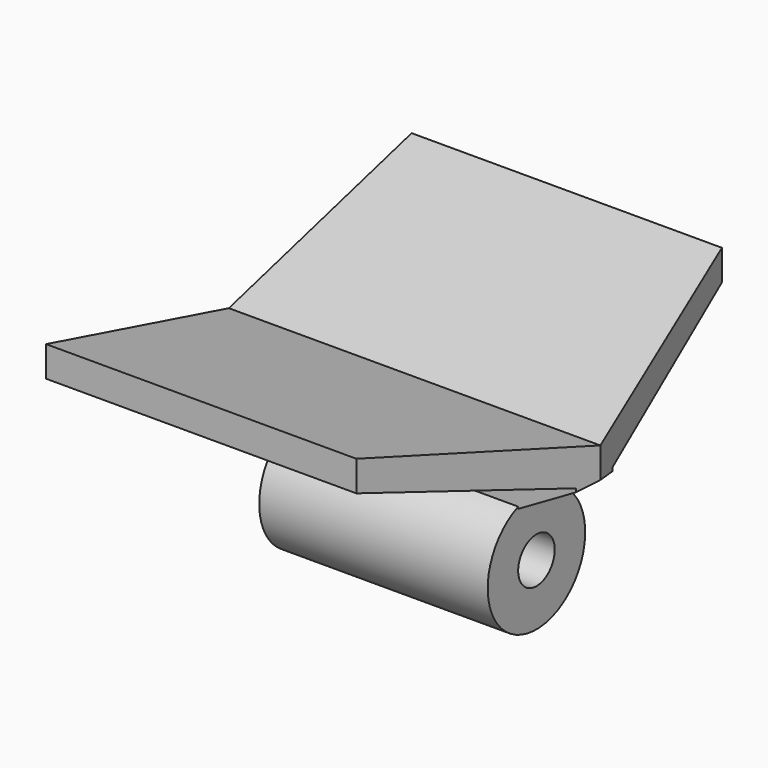
from build123d import *

# Parameters (mm, degrees)
F0_R     = 4
F0_R_2   = 1.5
F1_DEPTH = 15
F3_DEPTH = 1.5
F5_DEPTH = 24.3923048454
F7_DEPTH = 25


with BuildPart() as f1:
    # F0 (on Right) → F1 (new body)
    with BuildSketch(Plane.YZ):
        Circle(F0_R)
        Circle(F0_R_2, mode=Mode.SUBTRACT)
    extrude(amount=F1_DEPTH)

    # F2 (on Front) → F3 (join, symmetric)
    with BuildSketch(Plane.XZ):
        Polygon((-5.1961524227, 6), (0, 3), (14, 3), (19.1961524227, 6), (19.1961524227, 8), (-5.1961524227, 8), align=None)
    extrude(amount=F3_DEPTH, both=True)

    # F4 (on face) → F5 (join, through all)
    with BuildSketch(Plane(origin=(-5.1961524227, 0, 0), x_dir=(0, -1, 0), z_dir=(-1, 0, 0))):
        Polygon((15, 12.0192378865), (0, 8), (1.5, 6), (15, 10.0192378865), align=None)
        Polygon((-1.5, 6), (0, 8), (-15, 12.0192378865), (-15, 10.0192378865), align=None)
    extrude(amount=-F5_DEPTH)

    # F6 (on Top) → F7 (cut)
    with BuildSketch(Plane.XY):
        Polygon((14.137943439, 18.8774929223), (19.1961524227, 0), (14.137943439, -18.8774929223), (27.2481460124, -18.8774929223), (27.2481460124, 0), (27.2481460124, 18.8774929223), align=None)
    extrude(amount=F7_DEPTH, mode=Mode.SUBTRACT)


solid = f1.part
